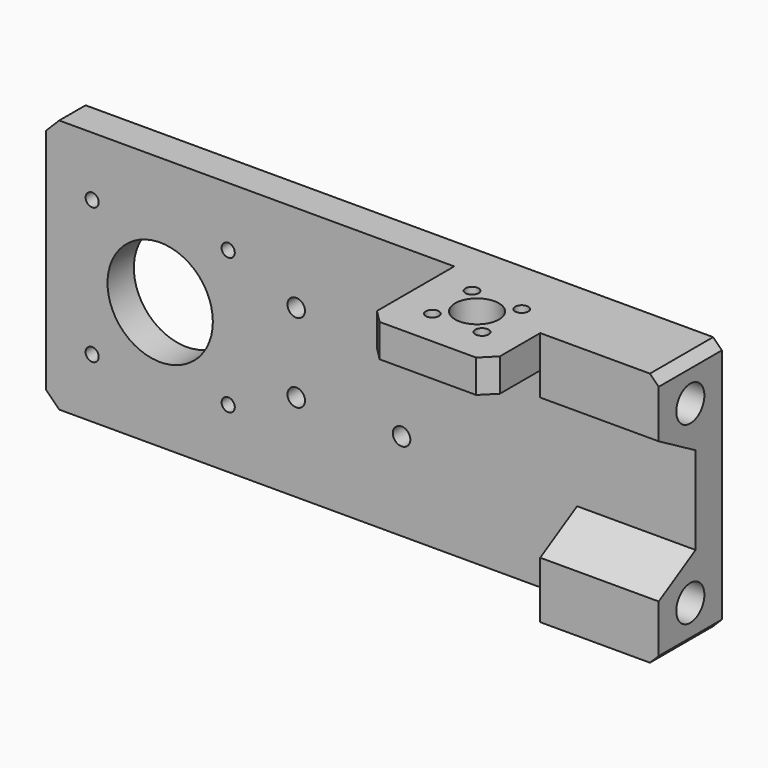
from build123d import *

# Parameters (mm, degrees)
PAD_DEPTH       = 58
SKETCH001_R     = 4
POCKET_DEPTH    = 25
SKETCH002_W     = 28
SKETCH002_H     = 25
POCKET001_DEPTH = 50.5
POCKET002_DEPTH = 27
SKETCH004_R     = 5
SKETCH004_R_2   = 1.5
POCKET003_DEPTH = 58.001
SKETCH005_R     = 12
SKETCH005_R_2   = 1.5
SKETCH005_R_3   = 2
POCKET004_DEPTH = 7.501
CHAMFER_SIZE    = 2
CHAMFER001_SIZE = 3
CHAMFER002_SIZE = 3


with BuildPart() as part:
    # Sketch → Pad (new body)
    with BuildSketch(Plane.XY):
        Polygon((0, 25), (0, 32.5), (148, 32.5), (148, 14.5), (121, 14.5), (121, 0), (93, 0), (93, 25), align=None)
    extrude(amount=PAD_DEPTH)

    # Sketch001 (on Face3 of Pad) → Pocket (cut)
    with BuildSketch(Plane.YZ.offset(148)):
        with Locations((23.5, 49)):
            Circle(SKETCH001_R)
        with Locations((23.5, 9)):
            Circle(SKETCH001_R)
    extrude(amount=-POCKET_DEPTH, mode=Mode.SUBTRACT)

    # Sketch002 (on Face4 of Pocket) → Pocket001 (cut)
    with BuildSketch(Plane(origin=(0, 0, 0), x_dir=(1, 0, 0), z_dir=(0, 0, -1))):
        with Locations((107, -12.5)):
            Rectangle(SKETCH002_W, SKETCH002_H)
    extrude(amount=-POCKET001_DEPTH, mode=Mode.SUBTRACT)

    # Sketch003 (on Face8 of Pocket001) → Pocket002 (cut)
    with BuildSketch(Plane.YZ.offset(148)):
        Polygon((14.5, 45.062178), (14.5, 12.937822), (25, 19), (25, 39), align=None)
    extrude(amount=-POCKET002_DEPTH, mode=Mode.SUBTRACT)

    # Sketch004 (on Face4 of Pocket002) → Pocket003 (cut, through all)
    with BuildSketch(Plane.XY.offset(58)):
        with Locations((107, 14)):
            Circle(SKETCH004_R)
        with Locations((101.343146, 19.656854)):
            Circle(SKETCH004_R_2)
        with Locations((112.656854, 19.656854)):
            Circle(SKETCH004_R_2)
        with Locations((112.656854, 8.343146)):
            Circle(SKETCH004_R_2)
        with Locations((101.343146, 8.343146)):
            Circle(SKETCH004_R_2)
    extrude(amount=-POCKET003_DEPTH, mode=Mode.SUBTRACT)

    # Sketch005 (on Face2 of Pocket003) → Pocket004 (cut, through all)
    with BuildSketch(Plane.XZ.offset(-25)):
        with Locations((26, 29)):
            Circle(SKETCH005_R)
        with Locations((10.5, 44.5)):
            Circle(SKETCH005_R_2)
        with Locations((41.5, 44.5)):
            Circle(SKETCH005_R_2)
        with Locations((10.5, 13.5)):
            Circle(SKETCH005_R_2)
        with Locations((41.5, 13.5)):
            Circle(SKETCH005_R_2)
        with Locations((57, 38)):
            Circle(SKETCH005_R_3)
        with Locations((81, 38)):
            Circle(SKETCH005_R_3)
        with Locations((81, 20)):
            Circle(SKETCH005_R_3)
        with Locations((57, 20)):
            Circle(SKETCH005_R_3)
    extrude(amount=-POCKET004_DEPTH, mode=Mode.SUBTRACT)

    # Chamfer
    chamfer_edges = [part.edges().sort_by_distance(p)[0] for p in [
        (148, 23.5, 58),
        (148, 23.5, 0),
    ]]
    chamfer(chamfer_edges, length=CHAMFER_SIZE)

    # Chamfer001
    chamfer001_edges = [part.edges().sort_by_distance(p)[0] for p in [
        (121, 0, 54.25),
        (93, 0, 54.25),
    ]]
    chamfer(chamfer001_edges, length=CHAMFER001_SIZE)

    # Chamfer002
    chamfer002_edges = [part.edges().sort_by_distance(p)[0] for p in [
        (0, 28.75, 58),
        (0, 28.75, 0),
    ]]
    chamfer(chamfer002_edges, length=CHAMFER002_SIZE)


solid = part.part
